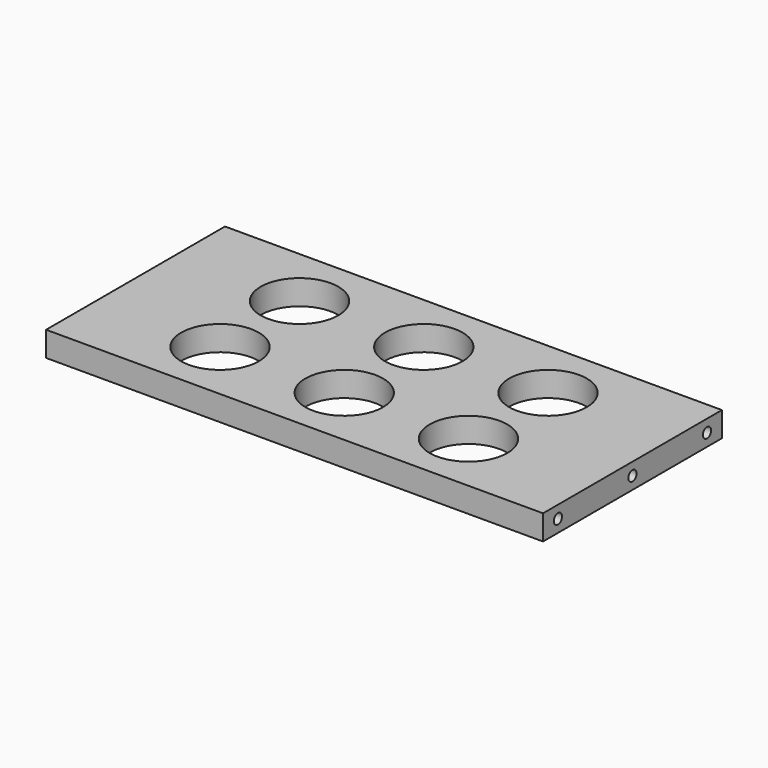
from build123d import *

# Parameters (mm, degrees)
BOX_W          = 160
BOX_H          = 72
BOX_DEPTH      = 8
SKETCH_R       = 1.65
HOLE_DEPTH     = 11.00858
HOLE_TIPS_R    = 1.65
SKETCH001_R    = 1.65
HOLE001_DEPTH  = 11.00858
HOLE001_TIPS_R = 1.65
SKETCH002_R    = 12.5
HOLE002_DEPTH  = 8.001


with BuildPart() as part:
    # Box → Box (new body)
    with BuildSketch(Plane.XY):
        with Locations((80, 36)):
            Rectangle(BOX_W, BOX_H)
    extrude(amount=BOX_DEPTH)

    # Sketch (on Face1 of BaseFeature) → Hole (cut)
    with BuildSketch(Plane(origin=(0, 0, 0), x_dir=(0, -1, 0), z_dir=(-1, 0, 0))):
        with Locations((-66, 4)):
            Circle(SKETCH_R)
        with Locations((-36, 4)):
            Circle(SKETCH_R)
        with Locations((-6, 4)):
            Circle(SKETCH_R)
    extrude(amount=-HOLE_DEPTH, mode=Mode.SUBTRACT)

    # Hole tips → Hole tip 1 section 0
    with BuildSketch(Plane(origin=(11.00858, 0, 0), x_dir=(0, -1, 0), z_dir=(-1, 0, 0)), mode=Mode.PRIVATE) as hole_tip_1_s0:
        with Locations((-66, 4)):
            Circle(HOLE_TIPS_R)
    loft([hole_tip_1_s0.sketch, Vertex(12, 66, 4)], mode=Mode.SUBTRACT)

    # Hole tips → Hole tip 2 section 0
    with BuildSketch(Plane(origin=(11.00858, 0, 0), x_dir=(0, -1, 0), z_dir=(-1, 0, 0)), mode=Mode.PRIVATE) as hole_tip_2_s0:
        with Locations((-36, 4)):
            Circle(HOLE_TIPS_R)
    loft([hole_tip_2_s0.sketch, Vertex(12, 36, 4)], mode=Mode.SUBTRACT)

    # Hole tips → Hole tip 3 section 0
    with BuildSketch(Plane(origin=(11.00858, 0, 0), x_dir=(0, -1, 0), z_dir=(-1, 0, 0)), mode=Mode.PRIVATE) as hole_tip_3_s0:
        with Locations((-6, 4)):
            Circle(HOLE_TIPS_R)
    loft([hole_tip_3_s0.sketch, Vertex(12, 6, 4)], mode=Mode.SUBTRACT)

    # Sketch001 (on Face9 of Hole) → Hole001 (cut)
    with BuildSketch(Plane.YZ.offset(160)):
        with Locations((6, 4)):
            Circle(SKETCH001_R)
        with Locations((36, 4)):
            Circle(SKETCH001_R)
        with Locations((66, 4)):
            Circle(SKETCH001_R)
    extrude(amount=-HOLE001_DEPTH, mode=Mode.SUBTRACT)

    # Hole001 tips → Hole001 tip 1 section 0
    with BuildSketch(Plane.YZ.offset(148.99142), mode=Mode.PRIVATE) as hole001_tip_1_s0:
        with Locations((6, 4)):
            Circle(HOLE001_TIPS_R)
    loft([hole001_tip_1_s0.sketch, Vertex(148, 6, 4)], mode=Mode.SUBTRACT)

    # Hole001 tips → Hole001 tip 2 section 0
    with BuildSketch(Plane.YZ.offset(148.99142), mode=Mode.PRIVATE) as hole001_tip_2_s0:
        with Locations((36, 4)):
            Circle(HOLE001_TIPS_R)
    loft([hole001_tip_2_s0.sketch, Vertex(148, 36, 4)], mode=Mode.SUBTRACT)

    # Hole001 tips → Hole001 tip 3 section 0
    with BuildSketch(Plane.YZ.offset(148.99142), mode=Mode.PRIVATE) as hole001_tip_3_s0:
        with Locations((66, 4)):
            Circle(HOLE001_TIPS_R)
    loft([hole001_tip_3_s0.sketch, Vertex(148, 66, 4)], mode=Mode.SUBTRACT)

    # Sketch002 (on Face3 of Hole001) → Hole002 (cut, through all)
    with BuildSketch(Plane.XY.offset(8)):
        with Locations((40, 52)):
            Circle(SKETCH002_R)
        with Locations((40, 20)):
            Circle(SKETCH002_R)
        with Locations((120, 52)):
            Circle(SKETCH002_R)
        with Locations((120, 20)):
            Circle(SKETCH002_R)
        with Locations((80, 52)):
            Circle(SKETCH002_R)
        with Locations((80, 20)):
            Circle(SKETCH002_R)
    extrude(amount=-HOLE002_DEPTH, mode=Mode.SUBTRACT)


solid = part.part
